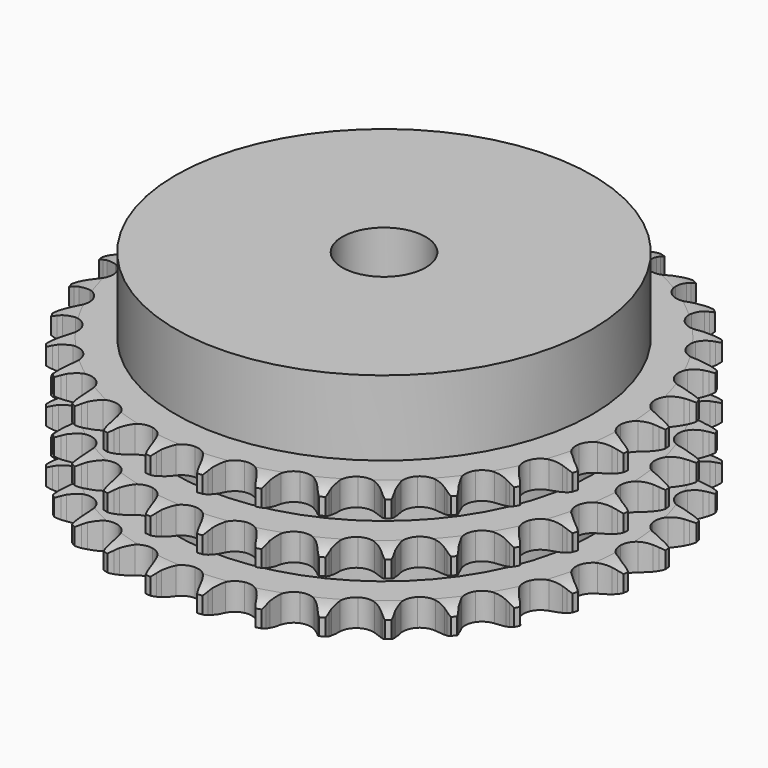
from build123d import *

# Parameters (mm, degrees)
PAD_DEPTH         = 25.6
SKETCH001_R       = 40
PAD001_DEPTH      = 40
SKETCH002_R       = 8
POCKET_DEPTH      = 0.001
POCKET_DEPTH_BACK = 40.001


with BuildPart() as part:
    # Sprocket → Pad (new body)
    with BuildSketch(Plane.XY):
        with BuildLine():
            ThreePointArc((-5.042302, 51.195355), (-4.453046, 50.412832), (-4.022448, 49.532973))
            Line((-4.022448, 49.532973), (-3.71269, 48.709966))
            ThreePointArc((-3.71269, 48.709966), (-3.220972, 47.640279), (-2.583007, 46.650826))
            ThreePointArc((-2.583007, 46.650826), (-1.443913, 45.700293), (0, 45.359466))
            ThreePointArc((0, 45.359466), (1.443913, 45.700293), (2.583007, 46.650826))
            ThreePointArc((2.583007, 46.650826), (3.220972, 47.640279), (3.71269, 48.709966))
            Line((3.71269, 48.709966), (4.022448, 49.532973))
            ThreePointArc((4.022448, 49.532973), (4.453046, 50.412832), (5.042302, 51.195355))
            ThreePointArc((5.042302, 51.195355), (5.467574, 50.312909), (5.718245, 49.365952))
            Line((5.718245, 49.365952), (5.861491, 48.498327))
            ThreePointArc((5.861491, 48.498327), (6.135075, 47.353265), (6.567749, 46.258363))
            ThreePointArc((6.567749, 46.258363), (7.499516, 45.103868), (8.849193, 44.487896))
            ThreePointArc((8.849193, 44.487896), (10.331853, 44.540482), (11.6345, 45.250523))
            Line((11.6345, 45.250523), (13.144195, 47.049707))
            ThreePointArc((13.144195, 47.049707), (13.366492, 47.429236), (13.608562, 47.79647))
            ThreePointArc((13.608562, 47.79647), (14.202537, 48.575417), (14.933134, 49.227946))
            ThreePointArc((14.933134, 49.227946), (15.178078, 48.27949), (15.23919, 47.301824))
            Line((15.23919, 47.301824), (15.210418, 46.422925))
            ThreePointArc((15.210418, 46.422925), (15.255355, 45.246491), (15.46611, 44.088217))
            ThreePointArc((15.46611, 44.088217), (16.154743, 42.774127), (17.358316, 41.906682))
            ThreePointArc((17.358316, 41.906682), (18.822747, 41.669004), (20.238886, 42.111269))
            Line((20.238886, 42.111269), (22.070576, 43.581355))
            ThreePointArc((22.070576, 43.581355), (22.362644, 43.910224), (22.671706, 44.223176))
            ThreePointArc((22.671706, 44.223176), (23.406233, 44.871276), (24.250094, 45.368735))
            ThreePointArc((24.250094, 45.368735), (24.305296, 44.390717), (24.174502, 43.419915))
            Line((24.174502, 43.419915), (23.974818, 42.563517))
            ThreePointArc((23.974818, 42.563517), (23.78938, 41.40092), (23.770118, 40.223786))
            ThreePointArc((23.770118, 40.223786), (24.189153, 38.8006), (25.200369, 37.715017))
            ThreePointArc((25.200369, 37.715017), (26.590292, 37.19621), (28.065502, 37.353702))
            Line((28.065502, 37.353702), (30.148796, 38.438196))
            ThreePointArc((30.148796, 38.438196), (30.499412, 38.703765), (30.863589, 38.950409))
            ThreePointArc((30.863589, 38.950409), (31.710441, 39.442758), (32.635136, 39.766029))
            ThreePointArc((32.635136, 39.766029), (32.498476, 38.796034), (32.180801, 37.869402))
            Line((32.180801, 37.869402), (31.817878, 37.068416))
            ThreePointArc((31.817878, 37.068416), (31.409193, 35.964335), (31.160653, 34.813577))
            ThreePointArc((31.160653, 34.813577), (31.293987, 33.335988), (32.073986, 32.073986))
            ThreePointArc((32.073986, 32.073986), (33.335988, 31.293987), (34.813577, 31.160653))
            Line((34.813577, 31.160653), (37.068416, 31.817878))
            ThreePointArc((37.068416, 31.817878), (37.464104, 32.009943), (37.869402, 32.180801))
            ThreePointArc((37.869402, 32.180801), (38.796034, 32.498476), (39.766029, 32.635136))
            ThreePointArc((39.766029, 32.635136), (39.442758, 31.710441), (38.950409, 30.863589))
            Line((38.950409, 30.863589), (38.438196, 30.148796))
            ThreePointArc((38.438196, 30.148796), (37.821968, 29.145661), (37.353702, 28.065502))
            ThreePointArc((37.353702, 28.065502), (37.19621, 26.590292), (37.715017, 25.200369))
            ThreePointArc((37.715017, 25.200369), (38.8006, 24.189153), (40.223786, 23.770118))
            Line((40.223786, 23.770118), (42.563517, 23.974818))
            ThreePointArc((42.563517, 23.974818), (42.989072, 24.085997), (43.419915, 24.174502))
            ThreePointArc((43.419915, 24.174502), (44.390717, 24.305296), (45.368735, 24.250094))
            ThreePointArc((45.368735, 24.250094), (44.871276, 23.406233), (44.223176, 22.671706))
            Line((44.223176, 22.671706), (43.581355, 22.070576))
            ThreePointArc((43.581355, 22.070576), (42.781266, 21.206936), (42.111269, 20.238886))
            ThreePointArc((42.111269, 20.238886), (41.669004, 18.822747), (41.906682, 17.358316))
            ThreePointArc((41.906682, 17.358316), (42.774127, 16.154743), (44.088217, 15.46611))
            Line((44.088217, 15.46611), (46.422925, 15.210418))
            ThreePointArc((46.422925, 15.210418), (46.861994, 15.23644), (47.301824, 15.23919))
            ThreePointArc((47.301824, 15.23919), (48.27949, 15.178078), (49.227946, 14.933134))
            ThreePointArc((49.227946, 14.933134), (48.575417, 14.202537), (47.79647, 13.608562))
            Line((47.79647, 13.608562), (47.049707, 13.144195))
            ThreePointArc((47.049707, 13.144195), (46.096504, 12.453239), (45.250523, 11.6345))
            ThreePointArc((45.250523, 11.6345), (44.540482, 10.331853), (44.487896, 8.849193))
            ThreePointArc((44.487896, 8.849193), (45.103868, 7.499516), (46.258363, 6.567749))
            Line((46.258363, 6.567749), (48.498327, 5.861491))
            ThreePointArc((48.498327, 5.861491), (48.934036, 5.801354), (49.365952, 5.718245))
            ThreePointArc((49.365952, 5.718245), (50.312909, 5.467574), (51.195355, 5.042302))
            ThreePointArc((51.195355, 5.042302), (50.412832, 4.453046), (49.532973, 4.022448))
            Line((49.532973, 4.022448), (48.709966, 3.71269))
            ThreePointArc((48.709966, 3.71269), (47.640279, 3.220972), (46.650826, 2.583007))
            ThreePointArc((46.650826, 2.583007), (45.700293, 1.443913), (45.359466, 0))
            ThreePointArc((45.359466, 0), (45.700293, -1.443913), (46.650826, -2.583007))
            Line((46.650826, -2.583007), (48.709966, -3.71269))
            ThreePointArc((48.709966, -3.71269), (49.12557, -3.856674), (49.532973, -4.022448))
            ThreePointArc((49.532973, -4.022448), (50.412832, -4.453046), (51.195355, -5.042302))
            ThreePointArc((51.195355, -5.042302), (50.312909, -5.467574), (49.365952, -5.718245))
            Line((49.365952, -5.718245), (48.498327, -5.861491))
            ThreePointArc((48.498327, -5.861491), (47.353265, -6.135075), (46.258363, -6.567749))
            ThreePointArc((46.258363, -6.567749), (45.103868, -7.499516), (44.487896, -8.849193))
            ThreePointArc((44.487896, -8.849193), (44.540482, -10.331853), (45.250523, -11.6345))
            Line((45.250523, -11.6345), (47.049707, -13.144195))
            ThreePointArc((47.049707, -13.144195), (47.429236, -13.366492), (47.79647, -13.608562))
            ThreePointArc((47.79647, -13.608562), (48.575417, -14.202537), (49.227946, -14.933134))
            ThreePointArc((49.227946, -14.933134), (48.27949, -15.178078), (47.301824, -15.23919))
            Line((47.301824, -15.23919), (46.422925, -15.210418))
            ThreePointArc((46.422925, -15.210418), (45.246491, -15.255355), (44.088217, -15.46611))
            ThreePointArc((44.088217, -15.46611), (42.774127, -16.154743), (41.906682, -17.358316))
            ThreePointArc((41.906682, -17.358316), (41.669004, -18.822747), (42.111269, -20.238886))
            Line((42.111269, -20.238886), (43.581355, -22.070576))
            ThreePointArc((43.581355, -22.070576), (43.910224, -22.362644), (44.223176, -22.671706))
            ThreePointArc((44.223176, -22.671706), (44.871276, -23.406233), (45.368735, -24.250094))
            ThreePointArc((45.368735, -24.250094), (44.390717, -24.305296), (43.419915, -24.174502))
            Line((43.419915, -24.174502), (42.563517, -23.974818))
            ThreePointArc((42.563517, -23.974818), (41.40092, -23.78938), (40.223786, -23.770118))
            ThreePointArc((40.223786, -23.770118), (38.8006, -24.189153), (37.715017, -25.200369))
            ThreePointArc((37.715017, -25.200369), (37.19621, -26.590292), (37.353702, -28.065502))
            Line((37.353702, -28.065502), (38.438196, -30.148796))
            ThreePointArc((38.438196, -30.148796), (38.703765, -30.499412), (38.950409, -30.863589))
            ThreePointArc((38.950409, -30.863589), (39.442758, -31.710441), (39.766029, -32.635136))
            ThreePointArc((39.766029, -32.635136), (38.796034, -32.498476), (37.869402, -32.180801))
            Line((37.869402, -32.180801), (37.068416, -31.817878))
            ThreePointArc((37.068416, -31.817878), (35.964335, -31.409193), (34.813577, -31.160653))
            ThreePointArc((34.813577, -31.160653), (33.335988, -31.293987), (32.073986, -32.073986))
            ThreePointArc((32.073986, -32.073986), (31.293987, -33.335988), (31.160653, -34.813577))
            Line((31.160653, -34.813577), (31.817878, -37.068416))
            ThreePointArc((31.817878, -37.068416), (32.009943, -37.464104), (32.180801, -37.869402))
            ThreePointArc((32.180801, -37.869402), (32.498476, -38.796034), (32.635136, -39.766029))
            ThreePointArc((32.635136, -39.766029), (31.710441, -39.442758), (30.863589, -38.950409))
            Line((30.863589, -38.950409), (30.148796, -38.438196))
            ThreePointArc((30.148796, -38.438196), (29.145661, -37.821968), (28.065502, -37.353702))
            ThreePointArc((28.065502, -37.353702), (26.590292, -37.19621), (25.200369, -37.715017))
            ThreePointArc((25.200369, -37.715017), (24.189153, -38.8006), (23.770118, -40.223786))
            Line((23.770118, -40.223786), (23.974818, -42.563517))
            ThreePointArc((23.974818, -42.563517), (24.085997, -42.989072), (24.174502, -43.419915))
            ThreePointArc((24.174502, -43.419915), (24.305296, -44.390717), (24.250094, -45.368735))
            ThreePointArc((24.250094, -45.368735), (23.406233, -44.871276), (22.671706, -44.223176))
            Line((22.671706, -44.223176), (22.070576, -43.581355))
            ThreePointArc((22.070576, -43.581355), (21.206936, -42.781266), (20.238886, -42.111269))
            ThreePointArc((20.238886, -42.111269), (18.822747, -41.669004), (17.358316, -41.906682))
            ThreePointArc((17.358316, -41.906682), (16.154743, -42.774127), (15.46611, -44.088217))
            Line((15.46611, -44.088217), (15.210418, -46.422925))
            ThreePointArc((15.210418, -46.422925), (15.23644, -46.861994), (15.23919, -47.301824))
            ThreePointArc((15.23919, -47.301824), (15.178078, -48.27949), (14.933134, -49.227946))
            ThreePointArc((14.933134, -49.227946), (14.202537, -48.575417), (13.608562, -47.79647))
            Line((13.608562, -47.79647), (13.144195, -47.049707))
            ThreePointArc((13.144195, -47.049707), (12.453239, -46.096504), (11.6345, -45.250523))
            ThreePointArc((11.6345, -45.250523), (10.331853, -44.540482), (8.849193, -44.487896))
            ThreePointArc((8.849193, -44.487896), (7.499516, -45.103868), (6.567749, -46.258363))
            Line((6.567749, -46.258363), (5.861491, -48.498327))
            ThreePointArc((5.861491, -48.498327), (5.801354, -48.934036), (5.718245, -49.365952))
            ThreePointArc((5.718245, -49.365952), (5.467574, -50.312909), (5.042302, -51.195355))
            ThreePointArc((5.042302, -51.195355), (4.453046, -50.412832), (4.022448, -49.532973))
            Line((4.022448, -49.532973), (3.71269, -48.709966))
            ThreePointArc((3.71269, -48.709966), (3.220972, -47.640279), (2.583007, -46.650826))
            ThreePointArc((2.583007, -46.650826), (1.443913, -45.700293), (0, -45.359466))
            ThreePointArc((0, -45.359466), (-1.443913, -45.700293), (-2.583007, -46.650826))
            Line((-2.583007, -46.650826), (-3.71269, -48.709966))
            ThreePointArc((-3.71269, -48.709966), (-3.856674, -49.12557), (-4.022448, -49.532973))
            ThreePointArc((-4.022448, -49.532973), (-4.453046, -50.412832), (-5.042302, -51.195355))
            ThreePointArc((-5.042302, -51.195355), (-5.467574, -50.312909), (-5.718245, -49.365952))
            Line((-5.718245, -49.365952), (-5.861491, -48.498327))
            ThreePointArc((-5.861491, -48.498327), (-6.135075, -47.353265), (-6.567749, -46.258363))
            ThreePointArc((-6.567749, -46.258363), (-7.499516, -45.103868), (-8.849193, -44.487896))
            ThreePointArc((-8.849193, -44.487896), (-10.331853, -44.540482), (-11.6345, -45.250523))
            Line((-11.6345, -45.250523), (-13.144195, -47.049707))
            ThreePointArc((-13.144195, -47.049707), (-13.366492, -47.429236), (-13.608562, -47.79647))
            ThreePointArc((-13.608562, -47.79647), (-14.202537, -48.575417), (-14.933134, -49.227946))
            ThreePointArc((-14.933134, -49.227946), (-15.178078, -48.27949), (-15.23919, -47.301824))
            Line((-15.23919, -47.301824), (-15.210418, -46.422925))
            ThreePointArc((-15.210418, -46.422925), (-15.255355, -45.246491), (-15.46611, -44.088217))
            ThreePointArc((-15.46611, -44.088217), (-16.154743, -42.774127), (-17.358316, -41.906682))
            ThreePointArc((-17.358316, -41.906682), (-18.822747, -41.669004), (-20.238886, -42.111269))
            Line((-20.238886, -42.111269), (-22.070576, -43.581355))
            ThreePointArc((-22.070576, -43.581355), (-22.362644, -43.910224), (-22.671706, -44.223176))
            ThreePointArc((-22.671706, -44.223176), (-23.406233, -44.871276), (-24.250094, -45.368735))
            ThreePointArc((-24.250094, -45.368735), (-24.305296, -44.390717), (-24.174502, -43.419915))
            Line((-24.174502, -43.419915), (-23.974818, -42.563517))
            ThreePointArc((-23.974818, -42.563517), (-23.78938, -41.40092), (-23.770118, -40.223786))
            ThreePointArc((-23.770118, -40.223786), (-24.189153, -38.8006), (-25.200369, -37.715017))
            ThreePointArc((-25.200369, -37.715017), (-26.590292, -37.19621), (-28.065502, -37.353702))
            Line((-28.065502, -37.353702), (-30.148796, -38.438196))
            ThreePointArc((-30.148796, -38.438196), (-30.499412, -38.703765), (-30.863589, -38.950409))
            ThreePointArc((-30.863589, -38.950409), (-31.710441, -39.442758), (-32.635136, -39.766029))
            ThreePointArc((-32.635136, -39.766029), (-32.498476, -38.796034), (-32.180801, -37.869402))
            Line((-32.180801, -37.869402), (-31.817878, -37.068416))
            ThreePointArc((-31.817878, -37.068416), (-31.409193, -35.964335), (-31.160653, -34.813577))
            ThreePointArc((-31.160653, -34.813577), (-31.293987, -33.335988), (-32.073986, -32.073986))
            ThreePointArc((-32.073986, -32.073986), (-33.335988, -31.293987), (-34.813577, -31.160653))
            Line((-34.813577, -31.160653), (-37.068416, -31.817878))
            ThreePointArc((-37.068416, -31.817878), (-37.464104, -32.009943), (-37.869402, -32.180801))
            ThreePointArc((-37.869402, -32.180801), (-38.796034, -32.498476), (-39.766029, -32.635136))
            ThreePointArc((-39.766029, -32.635136), (-39.442758, -31.710441), (-38.950409, -30.863589))
            Line((-38.950409, -30.863589), (-38.438196, -30.148796))
            ThreePointArc((-38.438196, -30.148796), (-37.821968, -29.145661), (-37.353702, -28.065502))
            ThreePointArc((-37.353702, -28.065502), (-37.19621, -26.590292), (-37.715017, -25.200369))
            ThreePointArc((-37.715017, -25.200369), (-38.8006, -24.189153), (-40.223786, -23.770118))
            Line((-40.223786, -23.770118), (-42.563517, -23.974818))
            ThreePointArc((-42.563517, -23.974818), (-42.989072, -24.085997), (-43.419915, -24.174502))
            ThreePointArc((-43.419915, -24.174502), (-44.390717, -24.305296), (-45.368735, -24.250094))
            ThreePointArc((-45.368735, -24.250094), (-44.871276, -23.406233), (-44.223176, -22.671706))
            Line((-44.223176, -22.671706), (-43.581355, -22.070576))
            ThreePointArc((-43.581355, -22.070576), (-42.781266, -21.206936), (-42.111269, -20.238886))
            ThreePointArc((-42.111269, -20.238886), (-41.669004, -18.822747), (-41.906682, -17.358316))
            ThreePointArc((-41.906682, -17.358316), (-42.774127, -16.154743), (-44.088217, -15.46611))
            Line((-44.088217, -15.46611), (-46.422925, -15.210418))
            ThreePointArc((-46.422925, -15.210418), (-46.861994, -15.23644), (-47.301824, -15.23919))
            ThreePointArc((-47.301824, -15.23919), (-48.27949, -15.178078), (-49.227946, -14.933134))
            ThreePointArc((-49.227946, -14.933134), (-48.575417, -14.202537), (-47.79647, -13.608562))
            Line((-47.79647, -13.608562), (-47.049707, -13.144195))
            ThreePointArc((-47.049707, -13.144195), (-46.096504, -12.453239), (-45.250523, -11.6345))
            ThreePointArc((-45.250523, -11.6345), (-44.540482, -10.331853), (-44.487896, -8.849193))
            ThreePointArc((-44.487896, -8.849193), (-45.103868, -7.499516), (-46.258363, -6.567749))
            Line((-46.258363, -6.567749), (-48.498327, -5.861491))
            ThreePointArc((-48.498327, -5.861491), (-48.934036, -5.801354), (-49.365952, -5.718245))
            ThreePointArc((-49.365952, -5.718245), (-50.312909, -5.467574), (-51.195355, -5.042302))
            ThreePointArc((-51.195355, -5.042302), (-50.412832, -4.453046), (-49.532973, -4.022448))
            Line((-49.532973, -4.022448), (-48.709966, -3.71269))
            ThreePointArc((-48.709966, -3.71269), (-47.640279, -3.220972), (-46.650826, -2.583007))
            ThreePointArc((-46.650826, -2.583007), (-45.700293, -1.443913), (-45.359466, 0))
            ThreePointArc((-45.359466, 0), (-45.700293, 1.443913), (-46.650826, 2.583007))
            Line((-46.650826, 2.583007), (-48.709966, 3.71269))
            ThreePointArc((-48.709966, 3.71269), (-49.12557, 3.856674), (-49.532973, 4.022448))
            ThreePointArc((-49.532973, 4.022448), (-50.412832, 4.453046), (-51.195355, 5.042302))
            ThreePointArc((-51.195355, 5.042302), (-50.312909, 5.467574), (-49.365952, 5.718245))
            Line((-49.365952, 5.718245), (-48.498327, 5.861491))
            ThreePointArc((-48.498327, 5.861491), (-47.353265, 6.135075), (-46.258363, 6.567749))
            ThreePointArc((-46.258363, 6.567749), (-45.103868, 7.499516), (-44.487896, 8.849193))
            ThreePointArc((-44.487896, 8.849193), (-44.540482, 10.331853), (-45.250523, 11.6345))
            Line((-45.250523, 11.6345), (-47.049707, 13.144195))
            ThreePointArc((-47.049707, 13.144195), (-47.429236, 13.366492), (-47.79647, 13.608562))
            ThreePointArc((-47.79647, 13.608562), (-48.575417, 14.202537), (-49.227946, 14.933134))
            ThreePointArc((-49.227946, 14.933134), (-48.27949, 15.178078), (-47.301824, 15.23919))
            Line((-47.301824, 15.23919), (-46.422925, 15.210418))
            ThreePointArc((-46.422925, 15.210418), (-45.246491, 15.255355), (-44.088217, 15.46611))
            ThreePointArc((-44.088217, 15.46611), (-42.774127, 16.154743), (-41.906682, 17.358316))
            ThreePointArc((-41.906682, 17.358316), (-41.669004, 18.822747), (-42.111269, 20.238886))
            Line((-42.111269, 20.238886), (-43.581355, 22.070576))
            ThreePointArc((-43.581355, 22.070576), (-43.910224, 22.362644), (-44.223176, 22.671706))
            ThreePointArc((-44.223176, 22.671706), (-44.871276, 23.406233), (-45.368735, 24.250094))
            ThreePointArc((-45.368735, 24.250094), (-44.390717, 24.305296), (-43.419915, 24.174502))
            Line((-43.419915, 24.174502), (-42.563517, 23.974818))
            ThreePointArc((-42.563517, 23.974818), (-41.40092, 23.78938), (-40.223786, 23.770118))
            ThreePointArc((-40.223786, 23.770118), (-38.8006, 24.189153), (-37.715017, 25.200369))
            ThreePointArc((-37.715017, 25.200369), (-37.19621, 26.590292), (-37.353702, 28.065502))
            Line((-37.353702, 28.065502), (-38.438196, 30.148796))
            ThreePointArc((-38.438196, 30.148796), (-38.703765, 30.499412), (-38.950409, 30.863589))
            ThreePointArc((-38.950409, 30.863589), (-39.442758, 31.710441), (-39.766029, 32.635136))
            ThreePointArc((-39.766029, 32.635136), (-38.796034, 32.498476), (-37.869402, 32.180801))
            Line((-37.869402, 32.180801), (-37.068416, 31.817878))
            ThreePointArc((-37.068416, 31.817878), (-35.964335, 31.409193), (-34.813577, 31.160653))
            ThreePointArc((-34.813577, 31.160653), (-33.335988, 31.293987), (-32.073986, 32.073986))
            ThreePointArc((-32.073986, 32.073986), (-31.293987, 33.335988), (-31.160653, 34.813577))
            Line((-31.160653, 34.813577), (-31.817878, 37.068416))
            ThreePointArc((-31.817878, 37.068416), (-32.009943, 37.464104), (-32.180801, 37.869402))
            ThreePointArc((-32.180801, 37.869402), (-32.498476, 38.796034), (-32.635136, 39.766029))
            ThreePointArc((-32.635136, 39.766029), (-31.710441, 39.442758), (-30.863589, 38.950409))
            Line((-30.863589, 38.950409), (-30.148796, 38.438196))
            ThreePointArc((-30.148796, 38.438196), (-29.145661, 37.821968), (-28.065502, 37.353702))
            ThreePointArc((-28.065502, 37.353702), (-26.590292, 37.19621), (-25.200369, 37.715017))
            ThreePointArc((-25.200369, 37.715017), (-24.189153, 38.8006), (-23.770118, 40.223786))
            Line((-23.770118, 40.223786), (-23.974818, 42.563517))
            ThreePointArc((-23.974818, 42.563517), (-24.085997, 42.989072), (-24.174502, 43.419915))
            ThreePointArc((-24.174502, 43.419915), (-24.305296, 44.390717), (-24.250094, 45.368735))
            ThreePointArc((-24.250094, 45.368735), (-23.406233, 44.871276), (-22.671706, 44.223176))
            Line((-22.671706, 44.223176), (-22.070576, 43.581355))
            ThreePointArc((-22.070576, 43.581355), (-21.206936, 42.781266), (-20.238886, 42.111269))
            ThreePointArc((-20.238886, 42.111269), (-18.822747, 41.669004), (-17.358316, 41.906682))
            ThreePointArc((-17.358316, 41.906682), (-16.154743, 42.774127), (-15.46611, 44.088217))
            Line((-15.46611, 44.088217), (-15.210418, 46.422925))
            ThreePointArc((-15.210418, 46.422925), (-15.23644, 46.861994), (-15.23919, 47.301824))
            ThreePointArc((-15.23919, 47.301824), (-15.178078, 48.27949), (-14.933134, 49.227946))
            ThreePointArc((-14.933134, 49.227946), (-14.202537, 48.575417), (-13.608562, 47.79647))
            Line((-13.608562, 47.79647), (-13.144195, 47.049707))
            ThreePointArc((-13.144195, 47.049707), (-12.453239, 46.096504), (-11.6345, 45.250523))
            ThreePointArc((-11.6345, 45.250523), (-10.331853, 44.540482), (-8.849193, 44.487896))
            ThreePointArc((-8.849193, 44.487896), (-7.499516, 45.103868), (-6.567749, 46.258363))
            Line((-6.567749, 46.258363), (-5.861491, 48.498327))
            ThreePointArc((-5.861491, 48.498327), (-5.801354, 48.934036), (-5.718245, 49.365952))
            ThreePointArc((-5.718245, 49.365952), (-5.467574, 50.312909), (-5.042302, 51.195355))
        make_face()
    extrude(amount=PAD_DEPTH)

    # Sketch → Groove (revolve, cut)
    with BuildSketch(Plane.XZ):
        with BuildLine():
            ThreePointArc((46.291101, 0), (48.527169, 0.253206), (50.65, 1))
            Line((50.65, 1), (50.65, 4.2))
            ThreePointArc((50.65, 4.2), (48.527169, 4.946794), (46.291101, 5.2))
            Line((40, 5.2), (46.291101, 5.2))
            Line((40, 5.2), (40, 10.2))
            Line((40, 10.2), (46.291101, 10.2))
            ThreePointArc((46.291101, 10.2), (48.527169, 10.453206), (50.65, 11.2))
            Line((50.65, 14.4), (50.65, 11.2))
            ThreePointArc((50.65, 14.4), (48.527169, 15.146794), (46.291101, 15.4))
            Line((40, 15.4), (46.291101, 15.4))
            Line((40, 20.4), (40, 15.4))
            Line((46.291101, 20.4), (40, 20.4))
            ThreePointArc((46.291101, 20.4), (48.527169, 20.653206), (50.65, 21.4))
            Line((50.65, 21.4), (50.65, 24.6))
            ThreePointArc((50.65, 24.6), (48.527169, 25.346794), (46.291101, 25.6))
            Line((46.291101, 25.6), (60.65, 25.6))
            Line((60.65, 25.6), (60.65, 0))
            Line((46.291101, 0), (60.65, 0))
        make_face()
    revolve(axis=Axis((0, 0, 0), (0, 0, 1)), mode=Mode.SUBTRACT)

    # Sketch001 → Pad001 (join)
    with BuildSketch(Plane.XY):
        Circle(SKETCH001_R)
    extrude(amount=PAD001_DEPTH)

    # Sketch002 → Pocket (cut, two sides)
    with BuildSketch(Plane.XY) as pocket_sk:
        Circle(SKETCH002_R)
    extrude(amount=-POCKET_DEPTH, mode=Mode.SUBTRACT)
    extrude(pocket_sk.sketch, amount=POCKET_DEPTH_BACK, mode=Mode.SUBTRACT)


solid = part.part
